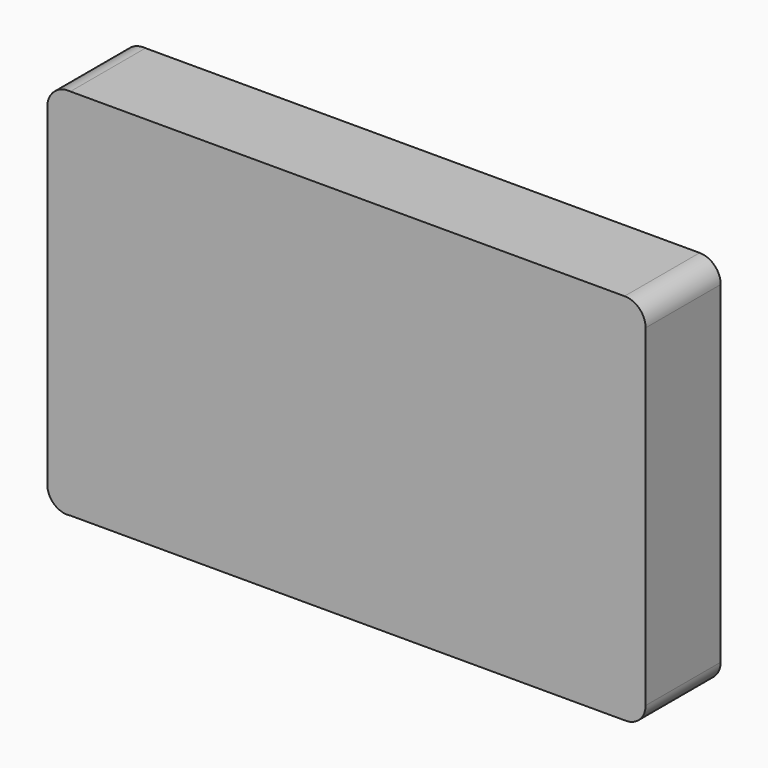
from build123d import *

# Parameters (mm, degrees)
F1_DEPTH = 25.4
F2_DEPTH = 25


with BuildPart() as f1:
    # F0 (on Front) → F1 (new body)
    with BuildSketch(Plane.XZ):
        with BuildLine():
            Line((70.616052, 74.146726), (-79.383948, 74.146726))
            ThreePointArc((-79.383948, 74.146726), (-83.768312, 72.689529), (-85.638054, 68.464587))
            Line((-85.638054, 68.464587), (-85.638054, -21.535413))
            ThreePointArc((-85.638054, -21.535413), (-83.703684, -25.706119), (-79.270333, -26.923482))
            Line((-79.270333, -26.923482), (70.729663, -26.923482))
            ThreePointArc((70.729663, -26.923482), (74.672486, -25.418962), (76.323993, -21.535413))
            Line((76.323993, -21.535413), (76.323993, 68.464587))
            ThreePointArc((76.323993, 68.464587), (74.643063, 72.484024), (70.616052, 74.146726))
        make_face()
    extrude(amount=F1_DEPTH)

    # F0 (on Front) → F2 (join)
    with BuildSketch(Plane.XZ):
        with BuildLine():
            Line((70.616052, 74.146726), (-79.383948, 74.146726))
            ThreePointArc((-79.383948, 74.146726), (-83.768312, 72.689529), (-85.638054, 68.464587))
            Line((-85.638054, 68.464587), (-85.638054, -21.535413))
            ThreePointArc((-85.638054, -21.535413), (-83.703684, -25.706119), (-79.270333, -26.923482))
            Line((-79.270333, -26.923482), (70.729663, -26.923482))
            ThreePointArc((70.729663, -26.923482), (74.672486, -25.418962), (76.323993, -21.535413))
            Line((76.323993, -21.535413), (76.323993, 68.464587))
            ThreePointArc((76.323993, 68.464587), (74.643063, 72.484024), (70.616052, 74.146726))
        make_face()
    extrude(amount=F2_DEPTH)


solid = f1.part
